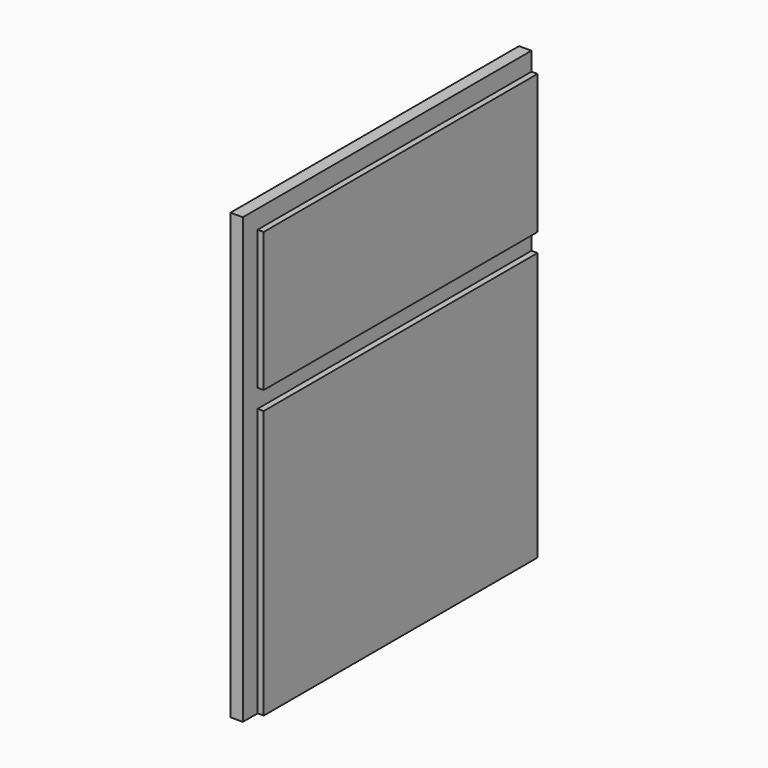
from build123d import *

# Parameters (mm, degrees)
F0_W     = 376.936
F0_H     = 464.185
F1_DEPTH = 19.304
F2_W     = 19.304
F2_H     = 145.415
F2_H_2   = 19.304
F2_W_2   = 357.632
F2_H_3   = 280.162
F3_DEPTH = 6.35


with BuildPart() as f1:
    # F0 (on Right) → F1 (new body)
    with BuildSketch(Plane.YZ):
        Rectangle(F0_W, F0_H)
    extrude(amount=F1_DEPTH)

    # F2 (on face) → F3 (cut)
    with BuildSketch(Plane.YZ.offset(19.304)):
        with Locations((-178.816, 140.081)):
            Rectangle(F2_W, F2_H)
        with Locations((-178.816, 57.7215)):
            Rectangle(F2_W, F2_H_2)
        with Locations((9.652, 57.7215)):
            Rectangle(F2_W_2, F2_H_2)
        with Locations((-178.816, -92.0115)):
            Rectangle(F2_W, F2_H_3)
        with Locations((-178.816, 222.4405)):
            Rectangle(F2_W, F2_H_2)
        with Locations((9.652, 222.4405)):
            Rectangle(F2_W_2, F2_H_2)
    extrude(amount=-F3_DEPTH, mode=Mode.SUBTRACT)


solid = f1.part
